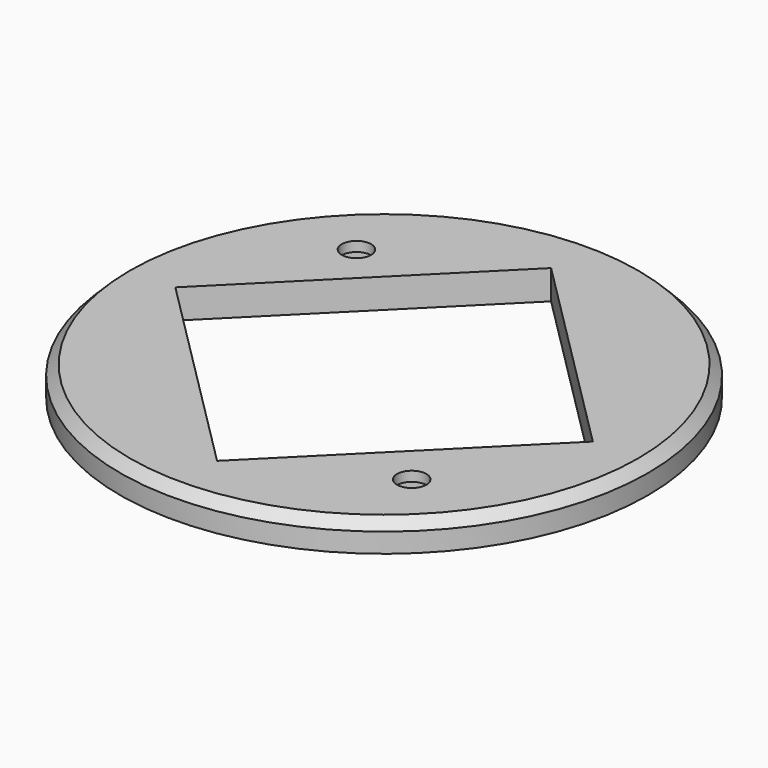
from build123d import *

# Parameters (mm, degrees)
BOX740_W                     = 6
BOX740_H                     = 6
BOX740_DEPTH                 = 20
BOX740_PLACEMENT_ANGLE       = 45
BOX742_W                     = 6
BOX742_H                     = 6
BOX742_DEPTH                 = 20
BOX742_PLACEMENT_ANGLE       = 135
CYLINDER1839_R               = 1.5
CYLINDER1839_DEPTH           = 20
CYLINDER1839_PLACEMENT_ANGLE = 135
CYLINDER1837_R               = 1.5
CYLINDER1837_DEPTH           = 20
CYLINDER1837_PLACEMENT_ANGLE = 45
BOX741_W                     = 30.2
BOX741_H                     = 30.2
BOX741_DEPTH                 = 100
BOX741_PLACEMENT_ANGLE       = 45
CYLINDER1838_R               = 27
CYLINDER1838_DEPTH           = 3
CHAMFER073_SIZE              = 1


with BuildPart() as krychle740:
    # Box740 → Box740 (new body)
    with BuildSketch(Plane.XY):
        with Locations((3, 3)):
            Rectangle(BOX740_W, BOX740_H)
    extrude(amount=BOX740_DEPTH)


with BuildPart() as krychle740_1:
    # Box740 placement: moved
    add(krychle740.part.moved(Location((9.899495, -14.142136, -30))).rotate(Axis((9.899495, -14.142136, -30), (0, 0, -1)), BOX740_PLACEMENT_ANGLE))


with BuildPart() as compound908:
    # Box742 → Box742 (new body)
    with BuildSketch(Plane.XY):
        with Locations((3, 3)):
            Rectangle(BOX742_W, BOX742_H)
    extrude(amount=BOX742_DEPTH)


with BuildPart() as compound908_1:
    # Box742 placement: moved
    add(compound908.part.moved(Location((-9.899495, 14.142136, -30))).rotate(Axis((-9.899495, 14.142136, -30), (0, 0, 1)), BOX742_PLACEMENT_ANGLE))

    # Compound908: union Krychle740
    add(krychle740_1.part)


with BuildPart() as compound908_2:
    # Compound908 placement: moved
    add(compound908_1.part.moved(Location((0, 0, -13))))


with BuildPart() as obj1:
    # Cylinder1839 → Cylinder1839 (new body)
    with BuildSketch(Plane.XY):
        Circle(CYLINDER1839_R)
    extrude(amount=CYLINDER1839_DEPTH)


with BuildPart() as obj1_1:
    # Cylinder1839 placement: moved
    add(obj1.part.moved(Location((-14.142136, 14.142136, -30))).rotate(Axis((-14.142136, 14.142136, -30), (0, 0, 1)), CYLINDER1839_PLACEMENT_ANGLE))


with BuildPart() as compound909:
    # Cylinder1837 → Cylinder1837 (new body)
    with BuildSketch(Plane.XY):
        Circle(CYLINDER1837_R)
    extrude(amount=CYLINDER1837_DEPTH)


with BuildPart() as compound909_1:
    # Cylinder1837 placement: moved
    add(compound909.part.moved(Location((14.142136, -14.142136, -30))).rotate(Axis((14.142136, -14.142136, -30), (0, 0, -1)), CYLINDER1837_PLACEMENT_ANGLE))

    # Compound909: union obj1
    add(obj1_1.part)


with BuildPart() as krychle741:
    # Box741 → Box741 (new body)
    with BuildSketch(Plane.XY):
        with Locations((15.1, 15.1)):
            Rectangle(BOX741_W, BOX741_H)
    extrude(amount=BOX741_DEPTH)


with BuildPart() as krychle741_1:
    # Box741 placement: moved
    add(krychle741.part.moved(Location((0, -21.354625, -30))).rotate(Axis((0, -21.354625, -30), (0, 0, 1)), BOX741_PLACEMENT_ANGLE))


with BuildPart() as cut561:
    # Cylinder1838 → Cylinder1838 (new body)
    with BuildSketch(Plane.XY.offset(-25)):
        Circle(CYLINDER1838_R)
    extrude(amount=CYLINDER1838_DEPTH)

    # Chamfer073
    chamfer073_edges = [cut561.edges().sort_by_distance(p)[0] for p in [
        (-27, 0, -22),
    ]]
    chamfer(chamfer073_edges, length=CHAMFER073_SIZE)

    # Cut562: cut Krychle741
    add(krychle741_1.part, mode=Mode.SUBTRACT)

    # Cut560: cut Compound909
    add(compound909_1.part, mode=Mode.SUBTRACT)

    # Cut561: cut Compound908
    add(compound908_2.part, mode=Mode.SUBTRACT)


solid = cut561.part
